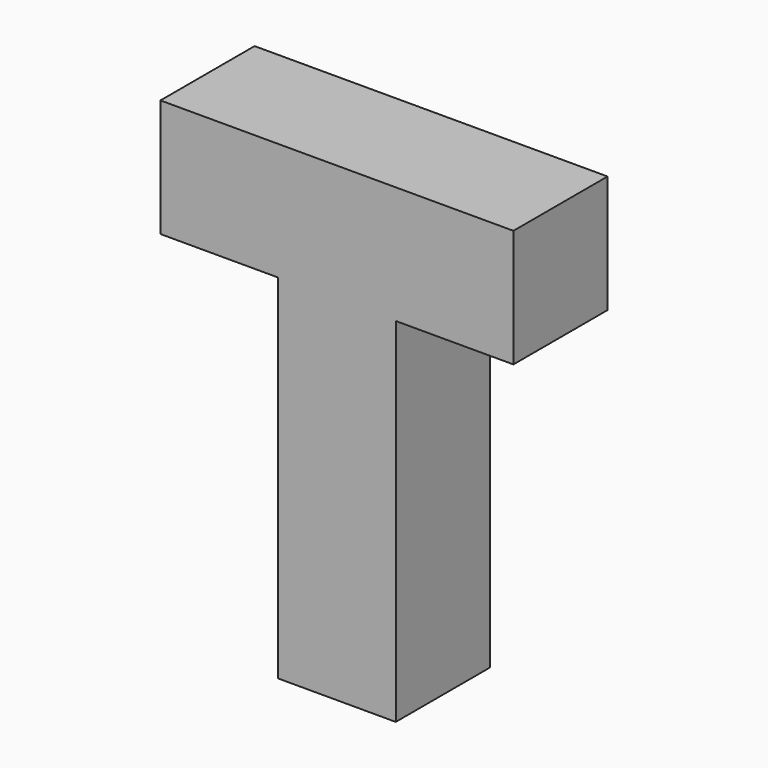
from build123d import *

# Parameters (mm, degrees)
BOX067_W     = 3
BOX067_H     = 1
BOX067_DEPTH = 1
BOX072_W     = 1
BOX072_H     = 1
BOX072_DEPTH = 3


with BuildPart() as box067:
    # Box067 → Box067 (new body)
    with BuildSketch(Plane(origin=(20, 0, 6), x_dir=(1, 0, 0), z_dir=(0, 0, 1))):
        with Locations((1.5, 0.5)):
            Rectangle(BOX067_W, BOX067_H)
    extrude(amount=BOX067_DEPTH)


with BuildPart() as fusion037:
    # Box072 → Box072 (new body)
    with BuildSketch(Plane(origin=(21, 0, 3), x_dir=(1, 0, 0), z_dir=(0, 0, 1))):
        with Locations((0.5, 0.5)):
            Rectangle(BOX072_W, BOX072_H)
    extrude(amount=BOX072_DEPTH)

    # Fusion037: union Box067
    add(box067.part)


solid = fusion037.part
